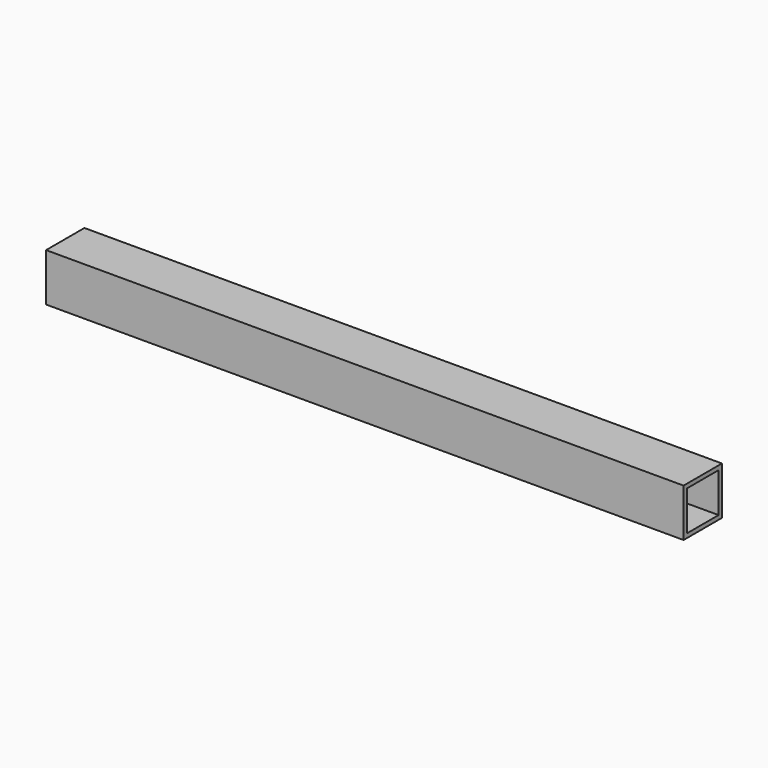
from build123d import *

# Parameters (mm, degrees)
SKETCH_W       = 31.75
SKETCH_H       = 31.75
SKETCH_W_2     = 26.2128
SKETCH_H_2     = 26.2128
PAD_DEPTH      = 211.137
PAD_DEPTH_BACK = 211.137


with BuildPart() as part:
    # Sketch → Pad (new body, two sides)
    with BuildSketch(Plane.YZ) as pad_sk:
        Rectangle(SKETCH_W, SKETCH_H)
        Rectangle(SKETCH_W_2, SKETCH_H_2, mode=Mode.SUBTRACT)
    extrude(amount=PAD_DEPTH)
    extrude(pad_sk.sketch, amount=-PAD_DEPTH_BACK)


solid = part.part
